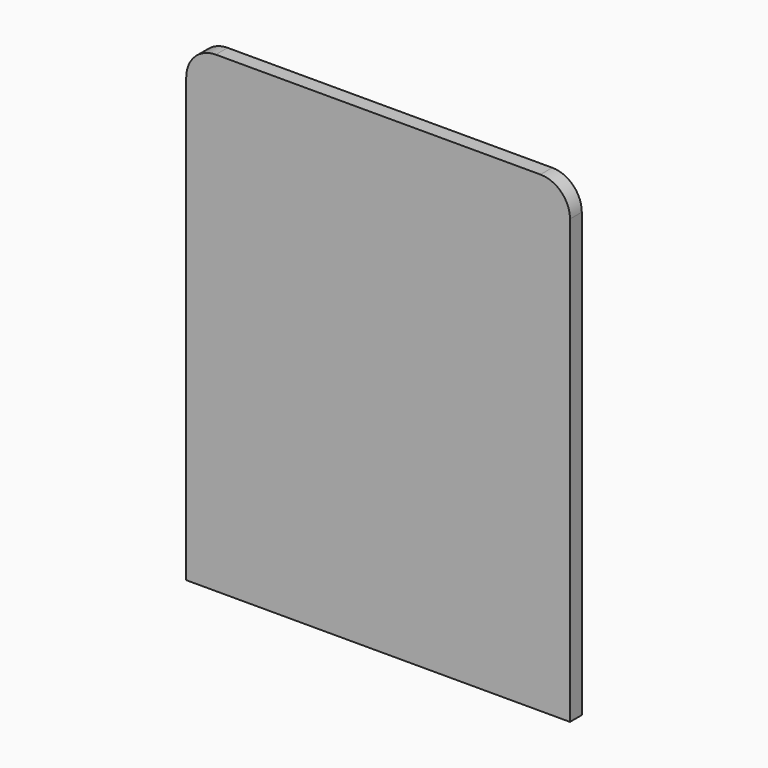
from build123d import *

# Parameters (mm, degrees)
F0_W     = 260
F0_H     = 320
F1_DEPTH = 10
F2_R     = 20
F4_DEPTH = 14


with BuildPart() as f1:
    # F0 (on Front) → F1 (new body)
    with BuildSketch(Plane.XZ):
        Rectangle(F0_W, F0_H)
    extrude(amount=F1_DEPTH)

    # F2
    f2_edges = [f1.edges().sort_by_distance(p)[0] for p in [
        (-130, -5, 160),
        (130, -5, 160),
    ]]
    fillet(f2_edges, radius=F2_R)

    # F3 (on face) → F4 (join)
    with BuildSketch(Plane(origin=(0, 0, 0), x_dir=(-1, 0, 0), z_dir=(0, 1, 0))):
        with BuildLine():
            ThreePointArc((-97.5, -120), (-105, -112.5), (-112.5, -120))
            Line((-112.5, -120), (-105, -120))
            Line((-105, -120), (-105, -127.5))
            ThreePointArc((-105, -127.5), (-99.696699, -125.303301), (-97.5, -120))
        make_face()
        with BuildLine():
            Line((-105, -120), (-112.5, -120))
            ThreePointArc((-112.5, -120), (-110.303301, -125.303301), (-105, -127.5))
            Line((-105, -127.5), (-105, -120))
        make_face()
        with BuildLine():
            ThreePointArc((105, -127.5), (110.303301, -125.303301), (112.5, -120))
            Line((112.5, -120), (105, -120))
            Line((105, -120), (105, -127.5))
        make_face()
        with BuildLine():
            Line((105, -120), (112.5, -120))
            ThreePointArc((112.5, -120), (99.696699, -114.696699), (105, -127.5))
            Line((105, -127.5), (105, -120))
        make_face()
        with BuildLine():
            ThreePointArc((105, 127.5), (99.696699, 114.696699), (112.5, 120))
            Line((112.5, 120), (105, 120))
            Line((105, 120), (105, 127.5))
        make_face()
        with BuildLine():
            Line((105, 120), (112.5, 120))
            ThreePointArc((112.5, 120), (110.303301, 125.303301), (105, 127.5))
            Line((105, 127.5), (105, 120))
        make_face()
        with BuildLine():
            ThreePointArc((-105, 127.5), (-110.303301, 125.303301), (-112.5, 120))
            Line((-112.5, 120), (-105, 120))
            Line((-105, 120), (-105, 127.5))
        make_face()
        with BuildLine():
            Line((-105, 120), (-112.5, 120))
            ThreePointArc((-112.5, 120), (-105, 112.5), (-97.5, 120))
            ThreePointArc((-97.5, 120), (-99.696699, 125.303301), (-105, 127.5))
            Line((-105, 127.5), (-105, 120))
        make_face()
    extrude(amount=F4_DEPTH)


solid = f1.part
